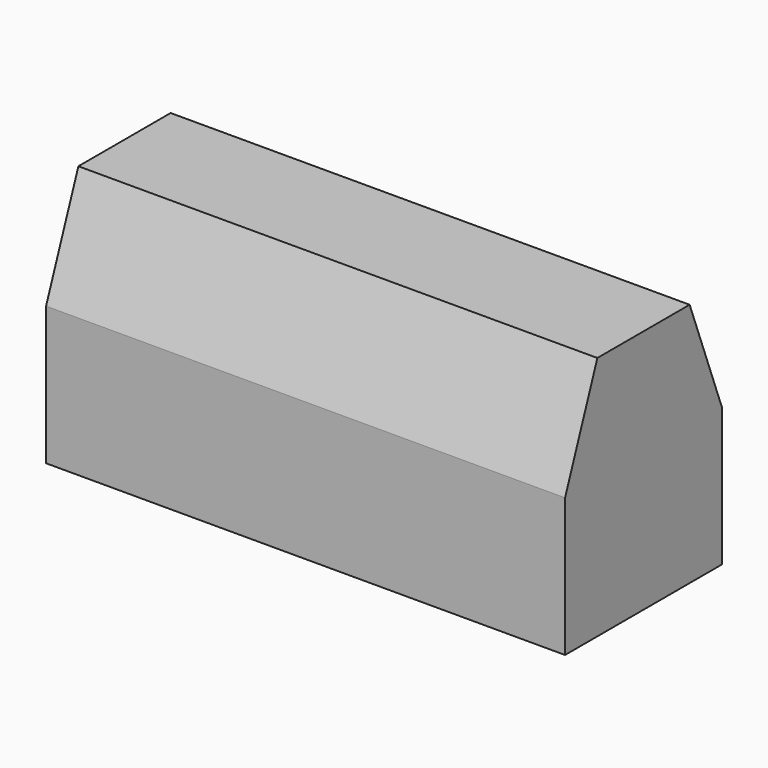
from build123d import *

# Parameters (mm, degrees)
SKETCH013_W      = 18
SKETCH013_H      = 6.8
PAD017_DEPTH     = 8.5
CHAMFER_SIZE2    = 1.4
CHAMFER_SIZE     = 3.7
CHAMFER001_SIZE2 = 3.7
CHAMFER001_SIZE  = 1.4


with BuildPart() as part:
    # Sketch013 → Pad017 (new body)
    with BuildSketch(Plane.XY):
        with Locations((30.3, 3.4)):
            Rectangle(SKETCH013_W, SKETCH013_H)
    extrude(amount=PAD017_DEPTH)

    # Chamfer
    chamfer_edges = [part.edges().sort_by_distance(p)[0] for p in [
        (30.3, 0, 8.5),
    ]]
    chamfer_side = part.faces().sort_by_distance((30.3, 0, 4.25))[0]
    chamfer(chamfer_edges, length=CHAMFER_SIZE, length2=CHAMFER_SIZE2, reference=chamfer_side)

    # Chamfer001
    chamfer001_edges = [part.edges().sort_by_distance(p)[0] for p in [
        (30.3, 6.8, 8.5),
    ]]
    chamfer001_side = part.faces().sort_by_distance((30.3, 4.1, 8.5))[0]
    chamfer(chamfer001_edges, length=CHAMFER001_SIZE, length2=CHAMFER001_SIZE2, reference=chamfer001_side)


with BuildPart() as part_1:
    # Body023 placement: moved
    add(part.part.moved(Location((-26.7, 0, 0))))


solid = part_1.part
